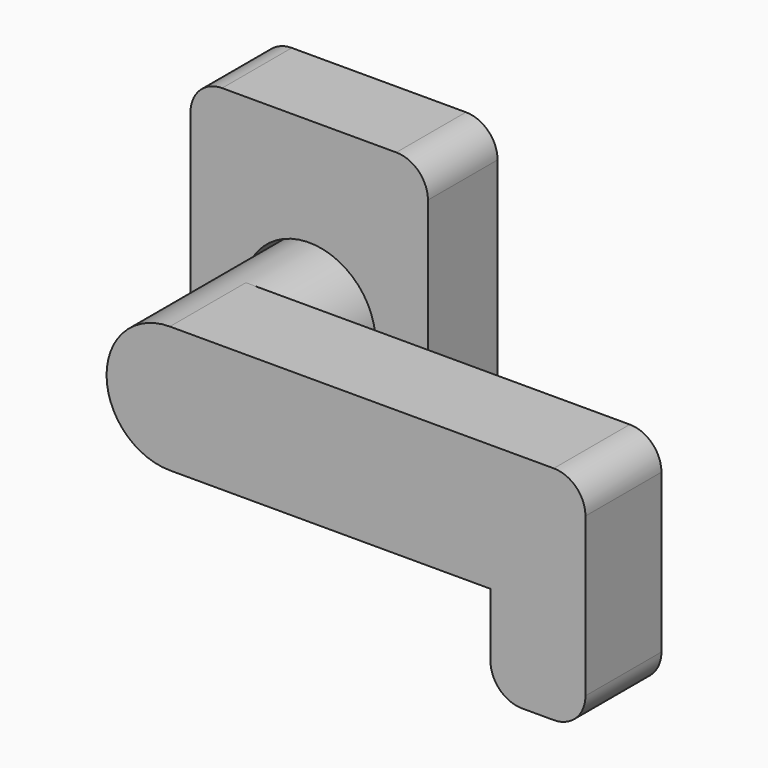
from build123d import *

# Parameters (mm, degrees)
F1_DEPTH = 5.5
F2_R     = 2
F3_DEPTH = 5.5
F4_DEPTH = 5
F6_DEPTH = 6
F7_R     = 2


with BuildPart() as f1:
    # F0 (on Front) → F1 (new body)
    with BuildSketch(Plane.XZ):
        with BuildLine():
            ThreePointArc((2.7202941017, -3.2), (0, -4.2), (-2.7202941017, -3.2))
            Line((-2.7202941017, -3.2), (-7.5, -3.2))
            Line((-7.5, -3.2), (-7.5, -8))
            Line((-7.5, -8), (0, -8))
            Line((0, -8), (7.5, -8))
            Line((7.5, -8), (7.5, -3.2))
            Line((7.5, -3.2), (2.7202941017, -3.2))
        make_face()
        with BuildLine():
            ThreePointArc((2.4, -3.2), (0, -4), (-2.4, -3.2))
            Line((-2.4, -3.2), (-2.7202941017, -3.2))
            ThreePointArc((-2.7202941017, -3.2), (0, -4.2), (2.7202941017, -3.2))
            Line((2.7202941017, -3.2), (2.4, -3.2))
        make_face()
        with BuildLine():
            Line((2.4, -3.2), (-2.4, -3.2))
            ThreePointArc((-2.4, -3.2), (0, -4), (2.4, -3.2))
        make_face()
        with BuildLine():
            Line((7.5, -3), (2.9393876913, -3))
            ThreePointArc((2.9393876913, -3), (2.8316072291, -3.1019349607), (2.7202941017, -3.2))
            Line((2.7202941017, -3.2), (7.5, -3.2))
            Line((7.5, -3.2), (7.5, -3))
        make_face()
        with BuildLine():
            ThreePointArc((-2.7202941017, -3.2), (-2.8316072291, -3.1019349607), (-2.9393876913, -3))
            Line((-2.9393876913, -3), (-7.5, -3))
            Line((-7.5, -3), (-7.5, -3.2))
            Line((-7.5, -3.2), (-2.7202941017, -3.2))
        make_face()
        with BuildLine():
            Line((-7.5, -3), (-2.9393876913, -3))
            ThreePointArc((-2.9393876913, -3), (-1.6270482009, 3.872042633), (4.2, 0))
            ThreePointArc((4.2, 0), (3.872042633, -1.6270482009), (2.9393876913, -3))
            Line((2.9393876913, -3), (7.5, -3))
            Line((7.5, -3), (7.5, 11))
            Line((7.5, 11), (0, 11))
            Line((0, 11), (-7.5, 11))
            Line((-7.5, 11), (-7.5, -3))
        make_face()
    extrude(amount=-F1_DEPTH)

    # F2
    f2_edges = [f1.edges().sort_by_distance(p)[0] for p in [
        (-7.5, 2.75, -8),
        (7.5, 2.75, -8),
        (-7.5, 2.75, 11),
        (7.5, 2.75, 11),
    ]]
    fillet(f2_edges, radius=F2_R)


with BuildPart() as f3:
    # F0 (on Front) → F3 (new body, through all)
    with BuildSketch(Plane.XZ):
        with BuildLine():
            ThreePointArc((2.6457513111, -3), (3.6457513111, -1.6457513111), (4, 0))
            ThreePointArc((4, 0), (-1.6457513111, 3.6457513111), (-2.6457513111, -3))
            Line((-2.6457513111, -3), (2.6457513111, -3))
        make_face()
    extrude(amount=-F3_DEPTH)

    # F0 (on Front) → F4 (join)
    with BuildSketch(Plane.XZ):
        with BuildLine():
            ThreePointArc((2.6457513111, -3), (3.6457513111, -1.6457513111), (4, 0))
            ThreePointArc((4, 0), (-1.6457513111, 3.6457513111), (-2.6457513111, -3))
            Line((-2.6457513111, -3), (2.6457513111, -3))
        make_face()
        with BuildLine():
            Line((2.4, -3.2), (-2.4, -3.2))
            ThreePointArc((-2.4, -3.2), (0, -4), (2.4, -3.2))
        make_face()
        with BuildLine():
            Line((2.6457513111, -3), (-2.6457513111, -3))
            ThreePointArc((-2.6457513111, -3), (-2.5248567431, -3.1024342744), (-2.4, -3.2))
            Line((-2.4, -3.2), (2.4, -3.2))
            ThreePointArc((2.4, -3.2), (2.5248567431, -3.1024342744), (2.6457513111, -3))
        make_face()
    extrude(amount=F4_DEPTH)

    # F5 (on face) → F6 (join)
    with BuildSketch(Plane.XZ.offset(5)):
        with BuildLine():
            Line((18.25, 4), (0, 4))
            ThreePointArc((0, 4), (2.8284271247, 2.8284271247), (4, 0))
            ThreePointArc((4, 0), (2.8284271247, -2.8284271247), (0, -4))
            Line((0, -4), (18.25, -4))
            Line((18.25, -4), (20.25, -4))
            Line((20.25, -4), (20.25, -10))
            Line((20.25, -10), (26.25, -10))
            Line((26.25, -10), (26.25, 4))
            Line((26.25, 4), (20.25, 4))
            Line((20.25, 4), (18.25, 4))
        make_face()
        with BuildLine():
            ThreePointArc((4, 0), (2.8284271247, 2.8284271247), (0, 4))
            ThreePointArc((0, 4), (-4, 0), (0, -4))
            ThreePointArc((0, -4), (2.8284271247, -2.8284271247), (4, 0))
        make_face()
    extrude(amount=F6_DEPTH)

    # F7
    f7_edges = [f3.edges().sort_by_distance(p)[0] for p in [
        (26.25, -8, 4),
        (26.25, -8, -10),
        (20.25, -8, -10),
    ]]
    fillet(f7_edges, radius=F7_R)


solid = Compound([f1.part, f3.part])
